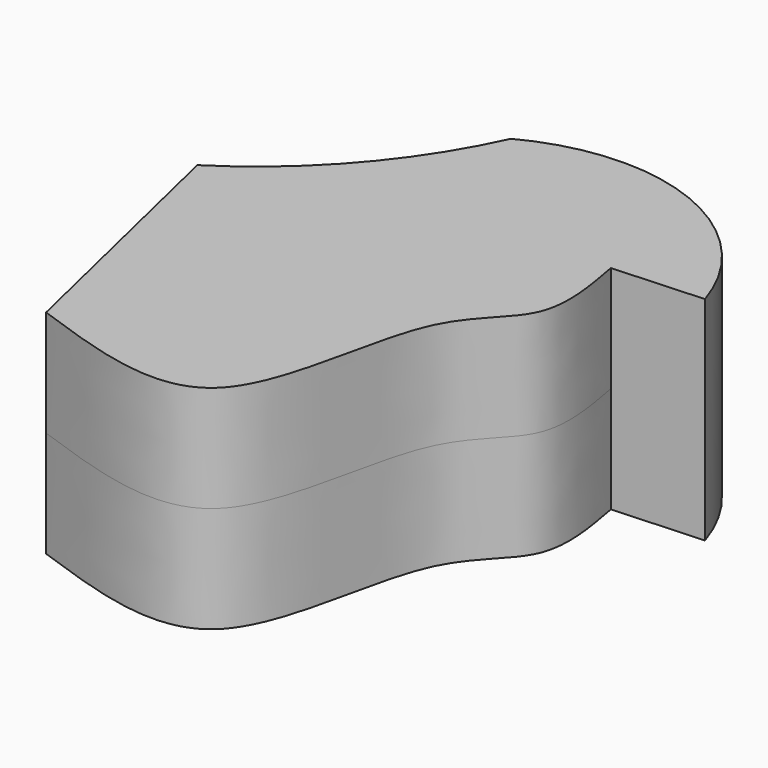
from build123d import *

# Parameters (mm, degrees)
F1_DEPTH = 12.7


with BuildPart() as f1:
    # F0 (on Top) → F1 (new body, symmetric)
    with BuildSketch(Plane.XY):
        with BuildLine():
            Line((23.609507829, 22.0063943416), (34.3941003084, 22.5893463939))
            ThreePointArc((34.3941003084, 22.5893463939), (20.4649624491, 37.6183745643), (0, 36.5801639855))
            ThreePointArc((0, 36.5801639855), (-8.1446175856, 23.9489166784), (-19.5288527757, 14.1365574673))
            Line((-19.5288527757, 14.1365574673), (-11.9504919276, -17.9257374257))
            add(Edge.make_bspline(
                [(-11.9504919276, -17.9257374257), (-3.2921123574, -20.9871153222), (14.3778327289, -27.2347484828), (15.0920027905, 4.2111228661), (25.8508491567, 9.7879606885), (24.3640357839, 17.8931655162), (23.609507829, 22.0063943416)],
                knots=[0, 0, 0, 0, 0.2906450611, 0.5931458915, 0.7935297032, 1, 1, 1, 1], degree=3))
        make_face()
    extrude(amount=F1_DEPTH, both=True)


solid = f1.part
